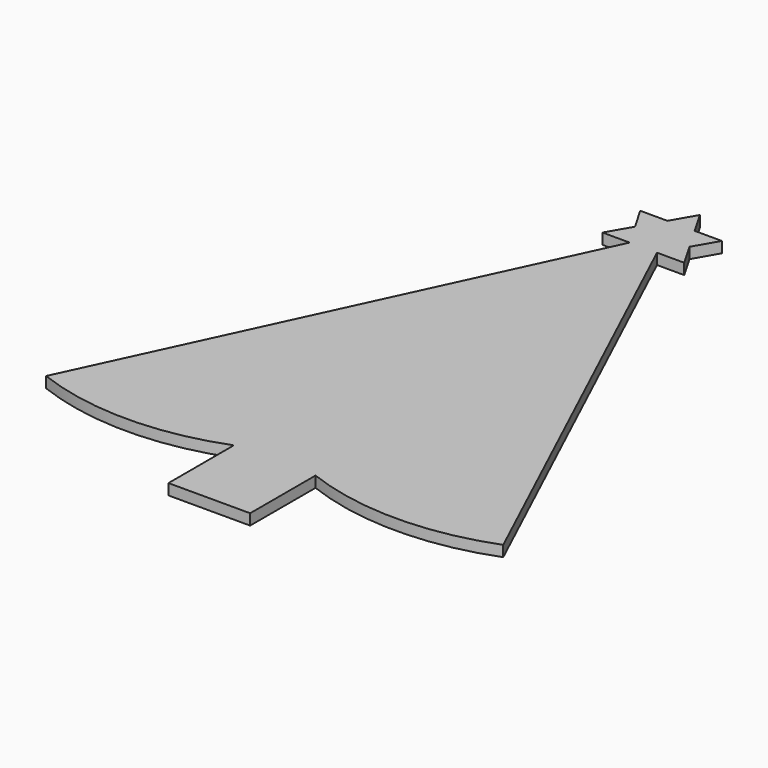
from build123d import *

# Parameters (mm, degrees)
PAD001_DEPTH = 2
PAD_DEPTH    = 2


with BuildPart() as star:
    # Sketch001 → Pad001 (new body)
    with BuildSketch(Plane.XY):
        Polygon((0, 112.610254), (2.5, 108.280127), (7.5, 108.280127), (5, 103.95), (7.5, 99.619873), (2.5, 99.619873), (0, 95.289746), (-2.5, 99.619873), (-7.5, 99.619873), (-5, 103.95), (-7.5, 108.280127), (-2.5, 108.280127), align=None)
    extrude(amount=PAD001_DEPTH)


with BuildPart() as fusion:
    # Sketch → Pad (new body)
    with BuildSketch(Plane.XY):
        with BuildLine():
            Line((7.5, 0), (-7.5, 0))
            Line((-7.5, 0), (-7.5, 15))
            ThreePointArc((-41.967689, 15), (-24.733845, 11.812809), (-7.5, 15))
            Line((0, 105), (-41.967689, 15))
            Line((0, 105), (41.967689, 15))
            ThreePointArc((7.5, 15), (24.733845, 11.812809), (41.967689, 15))
            Line((7.5, 15), (7.5, 0))
        make_face()
    extrude(amount=PAD_DEPTH)

    # Fusion: union Star
    add(star.part)


solid = fusion.part
